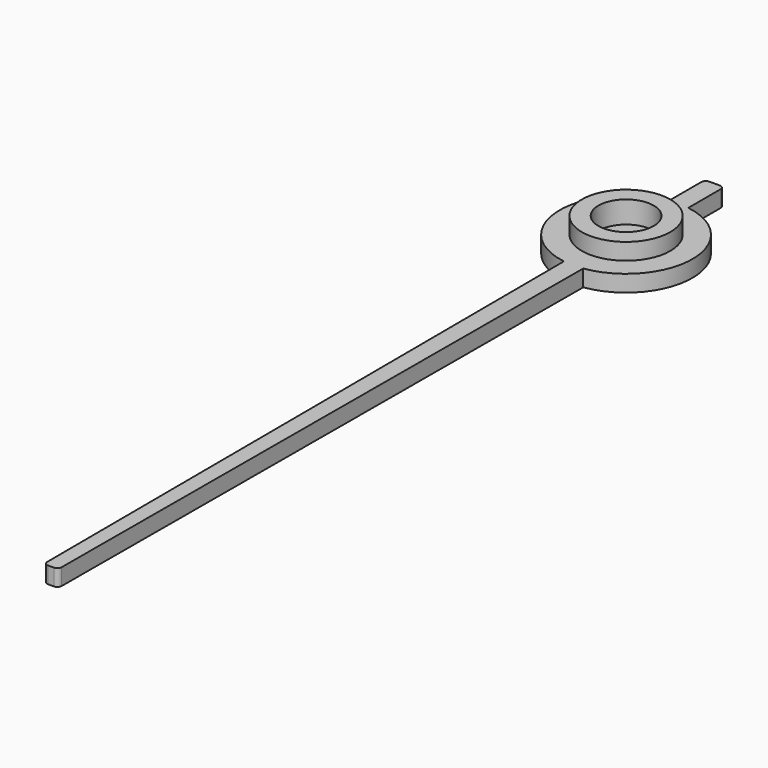
from build123d import *

# Parameters (mm, degrees)
SKETCH001_R   = 6
SKETCH001_R_2 = 3.25
SKETCH001_W   = 1.75
SKETCH001_H   = 4.064145
PAD001_DEPTH  = 1.5
PAD002_DEPTH  = 1.5
FILLET_R      = 0.4
SKETCH002_R   = 4
SKETCH002_R_2 = 2.5
PAD003_DEPTH  = 3
SKETCH003_R   = 3.25
SKETCH003_R_2 = 1.25
PAD004_DEPTH  = 1


with BuildPart() as part:
    # Sketch001 → Pad001 (new body)
    with BuildSketch(Plane.XY):
        Circle(SKETCH001_R)
        Circle(SKETCH001_R_2, mode=Mode.SUBTRACT)
        Polygon((-0.875, -5.935855), (-0.65, -65), (0.65, -65), (0.875, -5.935855), align=None)
        with Locations((0, 7.967928)):
            Rectangle(SKETCH001_W, SKETCH001_H)
    extrude(amount=-PAD001_DEPTH)

    # Sketch001 → Pad002 (join)
    with BuildSketch(Plane.XY):
        Circle(SKETCH001_R)
        Circle(SKETCH001_R_2, mode=Mode.SUBTRACT)
        Polygon((-0.875, -5.935855), (-0.65, -65), (0.65, -65), (0.875, -5.935855), align=None)
        with Locations((0, 7.967928)):
            Rectangle(SKETCH001_W, SKETCH001_H)
    extrude(amount=-PAD002_DEPTH)

    # Fillet
    fillet_edges = [part.edges().sort_by_distance(p)[0] for p in [
        (0.65, -65, -0.75),
        (-0.65, -65, -0.75),
        (0.875, 10, -0.75),
        (-0.875, 10, -0.75),
    ]]
    fillet(fillet_edges, radius=FILLET_R)

    # Sketch002 (on Face5 of Fillet) → Pad003 (join)
    with BuildSketch(Plane(origin=(0, 0, -1.5), x_dir=(1, 0, 0), z_dir=(0, 0, -1))):
        Circle(SKETCH002_R)
        Circle(SKETCH002_R_2, mode=Mode.SUBTRACT)
    extrude(amount=-PAD003_DEPTH)

    # Sketch003 (on Face17 of Pad003) → Pad004 (join)
    with BuildSketch(Plane(origin=(0, 0, -1.5), x_dir=(1, 0, 0), z_dir=(0, 0, -1))):
        Circle(SKETCH003_R)
        Circle(SKETCH003_R_2, mode=Mode.SUBTRACT)
    extrude(amount=-PAD004_DEPTH)


solid = part.part
